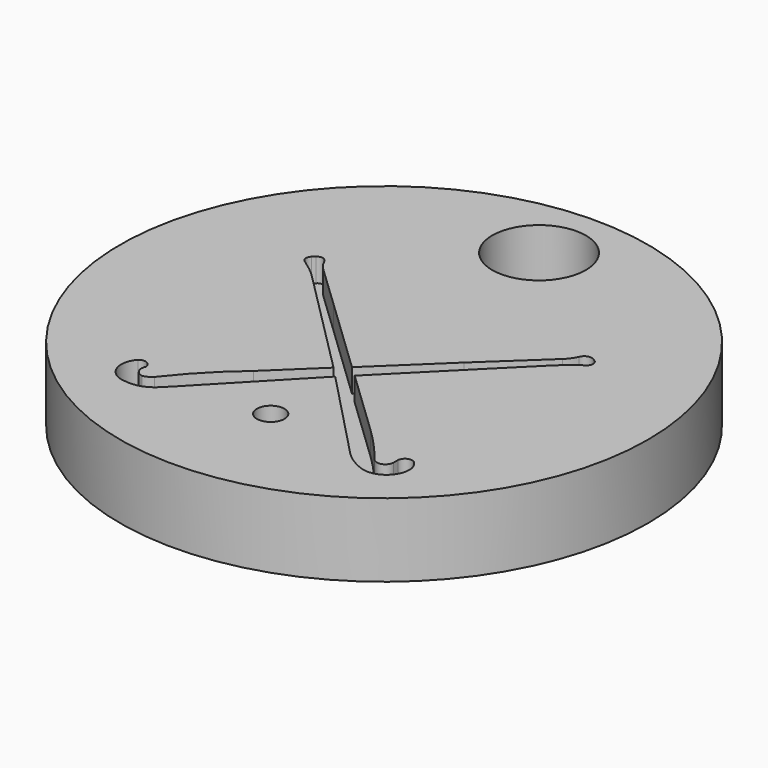
from build123d import *

# Parameters (mm, degrees)
F0_R     = 11.27
F1_DEPTH = 3.14
F2_R     = 0.5890094212
F3_DEPTH = 1
F4_D     = 4


with BuildPart() as f1:
    # F0 (on Top) → F1 (new body)
    with BuildSketch(Plane.XY):
        Circle(F0_R)
    extrude(amount=F1_DEPTH)

    # F2 (on face) → F3 (cut)
    with BuildSketch(Plane.XY.offset(3.14)):
        with BuildLine():
            Line((-61.7312958373, 21.3926987009), (-58.0294454006, 25.2554991458))
            Line((-58.0294454006, 25.2554991458), (-54.1867637143, 21.2518673281))
            ThreePointArc((-54.1867637143, 21.2518673281), (-53.7373686171, 20.8806710534), (-53.2149149093, 20.6222435956))
            ThreePointArc((-53.2149149093, 20.6222435956), (-52.303276006, 20.7518245546), (-51.8888391992, 21.5740890181))
            ThreePointArc((-51.8888391992, 21.5740890181), (-51.9310478545, 21.7908044873), (-52.0434124717, 21.9808606841))
            ThreePointArc((-52.0434124717, 21.9808606841), (-52.3852964474, 22.1363147434), (-52.6291636905, 21.8506936919))
            Line((-52.6291636905, 21.8506936919), (-52.6291636905, 21.6066308894))
            ThreePointArc((-52.6291636905, 21.6066308894), (-52.9032514772, 21.281470401), (-53.2962690946, 21.4439222723))
            ThreePointArc((-53.2962690946, 21.4439222723), (-53.9894142385, 22.2523776329), (-54.7349330148, 23.012806469))
            Line((-54.7349330148, 23.012806469), (-57.5646452943, 25.7127153939))
            Line((-57.5646452943, 25.7127153939), (-54.5263338413, 28.7611883431))
            Line((-54.5263338413, 28.7611883431), (-52.9285208167, 30.355923602))
            ThreePointArc((-52.9285208167, 30.355923602), (-52.4977416389, 30.7470238341), (-52.0319618331, 31.0957060162))
            ThreePointArc((-52.0319618331, 31.0957060162), (-51.882280216, 31.3348975172), (-52.0319618331, 31.5740890181))
            ThreePointArc((-52.0319618331, 31.5740890181), (-52.3412808676, 31.6540069056), (-52.5764442328, 31.4377586097))
            ThreePointArc((-52.5764442328, 31.4377586097), (-52.720584525, 31.1912058371), (-52.9093169978, 30.9768585785))
            Line((-52.9093169978, 30.9768585785), (-55.3087755022, 28.7307036543))
            Line((-55.3087755022, 28.7307036543), (-58.0172568554, 26.1346496445))
            Line((-58.0172568554, 26.1346496445), (-61.3351414896, 29.3003376902))
            Line((-61.3351414896, 29.3003376902), (-63.1147513893, 30.9945066363))
            ThreePointArc((-63.1147513893, 30.9945066363), (-63.2699523014, 31.1530129011), (-63.4136438076, 31.3220226943))
            ThreePointArc((-63.4136438076, 31.3220226943), (-63.4713878606, 31.4628315528), (-63.5582546894, 31.5877942045))
            ThreePointArc((-63.5582546894, 31.5877942045), (-63.7382128733, 31.6951710938), (-63.9334617012, 31.6190617019))
            Line((-63.9334617012, 31.6190617019), (-64.0585307051, 31.5174429514))
            ThreePointArc((-64.0585307051, 31.5174429514), (-64.1366278816, 31.3000099116), (-64.0038129543, 31.1109689349))
            Line((-64.0038129543, 31.1109689349), (-63.8474769458, 30.9898083066))
            ThreePointArc((-63.8474769458, 30.9898083066), (-63.4886568855, 30.7229218485), (-63.1577918353, 30.4220754827))
            Line((-63.1577918353, 30.4220754827), (-62.9491744453, 30.2127408469))
            Line((-62.9491744453, 30.2127408469), (-58.4760000401, 25.7241872536))
            Line((-58.4760000401, 25.7241872536), (-60.4066995048, 23.874780467))
            ThreePointArc((-60.4066995048, 23.874780467), (-61.6253233945, 22.738509753), (-62.7133773323, 21.4766484497))
            ThreePointArc((-62.7133773323, 21.4766484497), (-62.8851672484, 21.3450641448), (-63.089355572, 21.2734168623))
            ThreePointArc((-63.089355572, 21.2734168623), (-63.3925338367, 21.4837956535), (-63.404364434, 21.8526266894))
            ThreePointArc((-63.404364434, 21.8526266894), (-63.5864183589, 22.1403709739), (-63.9226048834, 22.0863429656))
            ThreePointArc((-63.9226048834, 22.0863429656), (-64.0836440025, 21.1552024698), (-63.3027486402, 20.6230759303))
            ThreePointArc((-63.3027486402, 20.6230759303), (-62.6464252626, 20.6724715017), (-62.0935210892, 21.0295391052))
            Line((-62.0935210892, 21.0295391052), (-61.7312958373, 21.3926987009))
        make_face()
        with BuildLine():
            Line((-3.4236896342, -6.8191600484), (0.2781608025, -2.9563596035))
            Line((0.2781608025, -2.9563596035), (4.1208424888, -6.9599914212))
            ThreePointArc((4.1208424888, -6.9599914212), (4.570237586, -7.3311876959), (5.0926912938, -7.5896151537))
            ThreePointArc((5.0926912938, -7.5896151537), (6.004330197, -7.4600341947), (6.4187670038, -6.6377697312))
            ThreePointArc((6.4187670038, -6.6377697312), (6.3765583485, -6.421054262), (6.2641937313, -6.2309980652))
            ThreePointArc((6.2641937313, -6.2309980652), (5.9223097557, -6.0755440059), (5.6784425126, -6.3611650574))
            Line((5.6784425126, -6.3611650574), (5.6784425126, -6.6052278599))
            ThreePointArc((5.6784425126, -6.6052278599), (5.4043547258, -6.9303883483), (5.0113371085, -6.767936477))
            ThreePointArc((5.0113371085, -6.767936477), (4.3181919645, -5.9594811164), (3.5726731882, -5.1990522803))
            Line((3.5726731882, -5.1990522803), (0.7429609088, -2.4991433554))
            Line((0.7429609088, -2.4991433554), (3.7812723618, 0.5493295938))
            Line((3.7812723618, 0.5493295938), (5.3790853864, 2.1440648527))
            ThreePointArc((5.3790853864, 2.1440648527), (5.8098645642, 2.5351650848), (6.2756443699, 2.8838472669))
            ThreePointArc((6.2756443699, 2.8838472669), (6.4253259871, 3.1230387679), (6.2756443699, 3.3622302688))
            ThreePointArc((6.2756443699, 3.3622302688), (5.9663253355, 3.4421481563), (5.7311619703, 3.2258998604))
            ThreePointArc((5.7311619703, 3.2258998604), (5.587021678, 2.9793470878), (5.3982892053, 2.7649998292))
            Line((5.3982892053, 2.7649998292), (2.9988307009, 0.518844905))
            Line((2.9988307009, 0.518844905), (0.2903493477, -2.0772091048))
            Line((0.2903493477, -2.0772091048), (-3.0275352865, 1.0884789409))
            Line((-3.0275352865, 1.0884789409), (-4.8071451862, 2.782647887))
            ThreePointArc((-4.8071451862, 2.782647887), (-4.9623460984, 2.9411541518), (-5.1060376045, 3.110163945))
            ThreePointArc((-5.1060376045, 3.110163945), (-5.1637816575, 3.2509728035), (-5.2506484863, 3.3759354552))
            ThreePointArc((-5.2506484863, 3.3759354552), (-5.4306066702, 3.4833123445), (-5.6258554981, 3.4072029526))
            Line((-5.6258554981, 3.4072029526), (-5.7509245021, 3.3055842021))
            ThreePointArc((-5.7509245021, 3.3055842021), (-5.8290216786, 3.0881511623), (-5.6962067512, 2.8991101857))
            Line((-5.6962067512, 2.8991101857), (-5.5398707427, 2.7779495573))
            ThreePointArc((-5.5398707427, 2.7779495573), (-5.1810506824, 2.5110630992), (-4.8501856322, 2.2102167334))
            Line((-4.8501856322, 2.2102167334), (-4.6415682422, 2.0008820976))
            Line((-4.6415682422, 2.0008820976), (-0.168393837, -2.4876714957))
            Line((-0.168393837, -2.4876714957), (-2.0990933017, -4.3370782823))
            ThreePointArc((-2.0990933017, -4.3370782823), (-3.3177171915, -5.4733489963), (-4.4057711293, -6.7352102996))
            ThreePointArc((-4.4057711293, -6.7352102996), (-4.5775610453, -6.8667946045), (-4.7817493689, -6.938441887))
            ThreePointArc((-4.7817493689, -6.938441887), (-5.0849276337, -6.7280630958), (-5.0967582309, -6.3592320599))
            ThreePointArc((-5.0967582309, -6.3592320599), (-5.2788121559, -6.0714877754), (-5.6149986803, -6.1255157836))
            ThreePointArc((-5.6149986803, -6.1255157836), (-5.7760377995, -7.0566562795), (-4.9951424372, -7.588782819))
            ThreePointArc((-4.9951424372, -7.588782819), (-4.3388190596, -7.5393872476), (-3.7859148861, -7.1823196441))
            Line((-3.7859148861, -7.1823196441), (-3.4236896342, -6.8191600484))
        make_face()
        with Locations((0.2781608025, -6.4016040415)):
            Circle(F2_R)
    extrude(amount=-F3_DEPTH, mode=Mode.SUBTRACT)

    # F4 (through all)
    with Locations(Plane(origin=(0, 0, 0), x_dir=(1, 0, 0), z_dir=(0, 0, -1))):
        with Locations((0, -8.27)):
            Hole(F4_D / 2)


solid = f1.part
